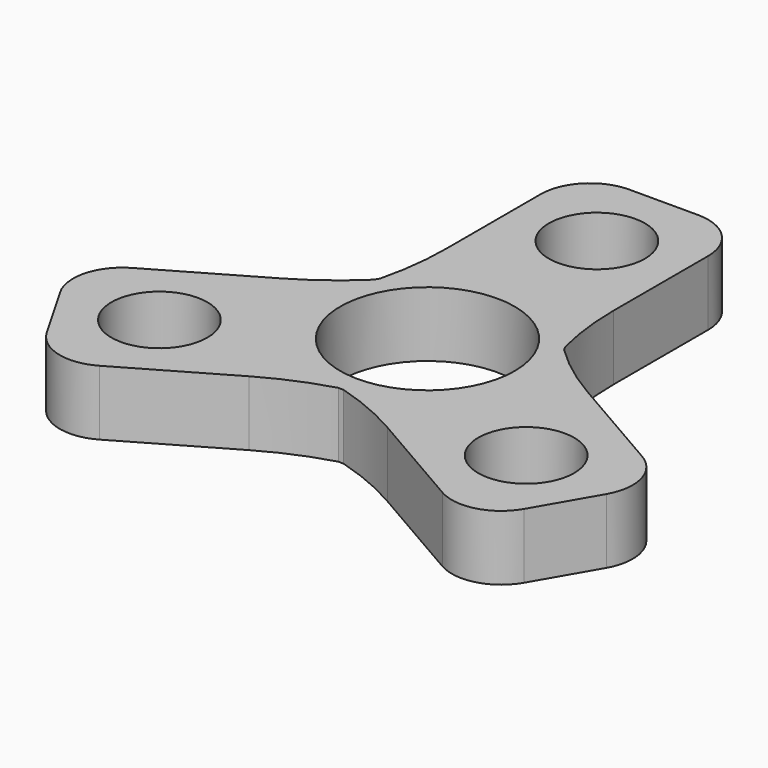
from build123d import *

# Parameters (mm, degrees)
F0_R     = 6.185827
F0_R_2   = 11.25
F1_DEPTH = 8.382


with BuildPart() as f1:
    # F0 (on Top) → F1 (new body)
    with BuildSketch(Plane.XY):
        with BuildLine():
            ThreePointArc((-10.795, 16.51), (-11.079307, 11.856451), (-11.927998, 7.272122))
            ThreePointArc((-11.927998, 7.272122), (-12.098375, 6.985), (-12.261842, 6.693888))
            ThreePointArc((-12.261842, 6.693888), (-15.807641, 3.666735), (-19.695579, 1.093744))
            Line((-19.695579, 1.093744), (-32.893807, -6.526256))
            ThreePointArc((-32.893807, -6.526256), (-35.852436, -10.382016), (-35.218068, -15.200517))
            Line((-35.218068, -15.200517), (-30.773068, -22.899483))
            ThreePointArc((-30.773068, -22.899483), (-26.917308, -25.858112), (-22.098807, -25.223744))
            Line((-22.098807, -25.223744), (-8.900579, -17.603744))
            ThreePointArc((-8.900579, -17.603744), (-4.728335, -15.523187), (-0.333844, -13.96601))
            ThreePointArc((-0.333844, -13.96601), (0, -13.97), (0.333844, -13.96601))
            ThreePointArc((0.333844, -13.96601), (4.728335, -15.523187), (8.900579, -17.603744))
            Line((8.900579, -17.603744), (22.098807, -25.223744))
            ThreePointArc((22.098807, -25.223744), (26.917308, -25.858112), (30.773068, -22.899483))
            Line((30.773068, -22.899483), (35.218068, -15.200517))
            ThreePointArc((35.218068, -15.200517), (35.852436, -10.382016), (32.893807, -6.526256))
            Line((32.893807, -6.526256), (19.695579, 1.093744))
            ThreePointArc((19.695579, 1.093744), (15.807641, 3.666735), (12.261842, 6.693888))
            ThreePointArc((12.261842, 6.693888), (12.098375, 6.985), (11.927998, 7.272122))
            ThreePointArc((11.927998, 7.272122), (11.079307, 11.856451), (10.795, 16.51))
            Line((10.795, 16.51), (10.795, 31.75))
            ThreePointArc((10.795, 31.75), (8.935128, 36.240128), (4.445, 38.1))
            Line((4.445, 38.1), (-4.445, 38.1))
            ThreePointArc((-4.445, 38.1), (-8.935128, 36.240128), (-10.795, 31.75))
            Line((-10.795, 31.75), (-10.795, 16.51))
        make_face()
        with Locations((-23.646824, -13.6525)):
            Circle(F0_R, mode=Mode.SUBTRACT)
        with Locations((23.646824, -13.6525)):
            Circle(F0_R, mode=Mode.SUBTRACT)
        Circle(F0_R_2, mode=Mode.SUBTRACT)
        with Locations((0, 27.305)):
            Circle(F0_R, mode=Mode.SUBTRACT)
    extrude(amount=F1_DEPTH)


solid = f1.part
